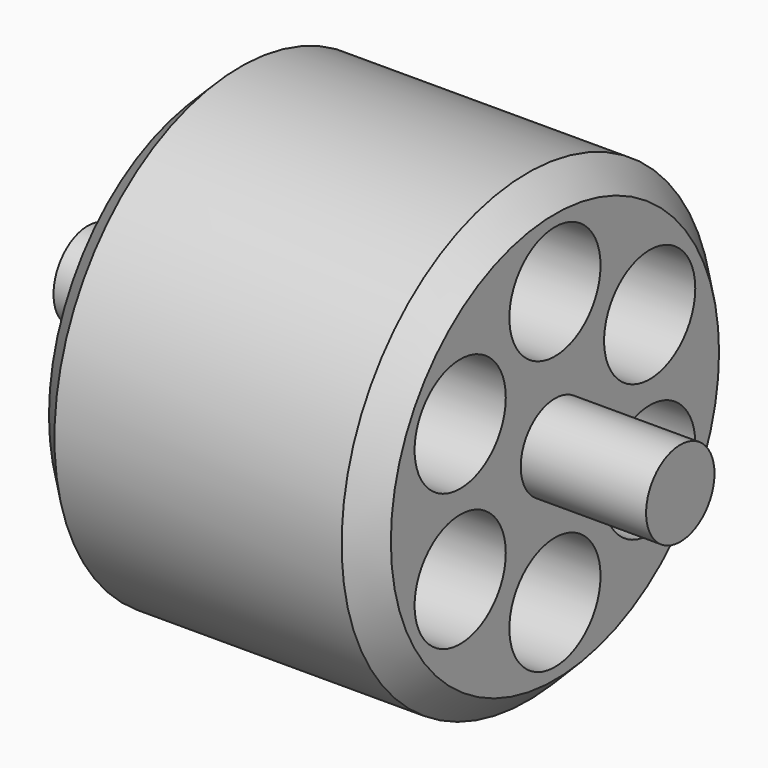
from build123d import *

# Parameters (mm, degrees)
F0_R     = 12.954
F0_R_2   = 2.38125
F1_DEPTH = 9.525
F2_DEPTH = 16.51
F3_R     = 3.175
F4_DEPTH = 26.036
F5_SIZE  = 1.524


with BuildPart() as f1:
    # F0 (on Right) → F1 (new body, symmetric)
    with BuildSketch(Plane.YZ):
        Circle(F0_R)
        Circle(F0_R_2, mode=Mode.SUBTRACT)
    extrude(amount=F1_DEPTH, both=True)

    # F0 (on Right) → F2 (join, symmetric)
    with BuildSketch(Plane.YZ):
        Circle(F0_R_2)
    extrude(amount=F2_DEPTH, both=True)

    # F3 (on face) → F4 (cut, through all)
    with BuildSketch(Plane.YZ.offset(9.525)):
        with Locations((0, 7.62)):
            Circle(F3_R)
        with Locations((-6.5991135768, 3.81)):
            Circle(F3_R)
        with Locations((-6.5991135768, -3.81)):
            Circle(F3_R)
        with Locations((0, -7.62)):
            Circle(F3_R)
        with Locations((6.5991135768, -3.81)):
            Circle(F3_R)
        with Locations((6.5991135768, 3.81)):
            Circle(F3_R)
    extrude(amount=-F4_DEPTH, mode=Mode.SUBTRACT)

    # F5
    f5_edges = [f1.edges().sort_by_distance(p)[0] for p in [
        (9.525, -12.954, 0),
        (-9.525, -12.954, 0),
    ]]
    chamfer(f5_edges, length=F5_SIZE)


solid = f1.part
